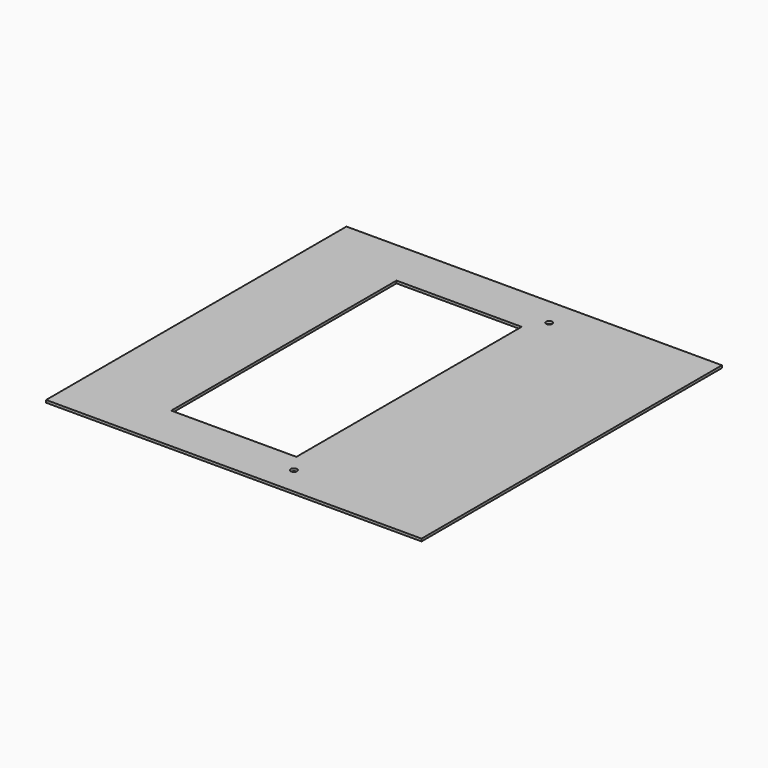
from build123d import *

# Parameters (mm, degrees)
F0_W     = 300
F0_H     = 300
F0_R     = 2.5
F0_W_2   = 100
F0_H_2   = 225
F1_DEPTH = 1


with BuildPart() as f1:
    # F0 (on Top) → F1 (new body, symmetric)
    with BuildSketch(Plane.XY):
        Rectangle(F0_W, F0_H)
        with Locations((30, -127.5)):
            Circle(F0_R, mode=Mode.SUBTRACT)
        with Locations((-30, 0)):
            Rectangle(F0_W_2, F0_H_2, mode=Mode.SUBTRACT)
        with Locations((30, 127.5)):
            Circle(F0_R, mode=Mode.SUBTRACT)
    extrude(amount=F1_DEPTH, both=True)


solid = f1.part
